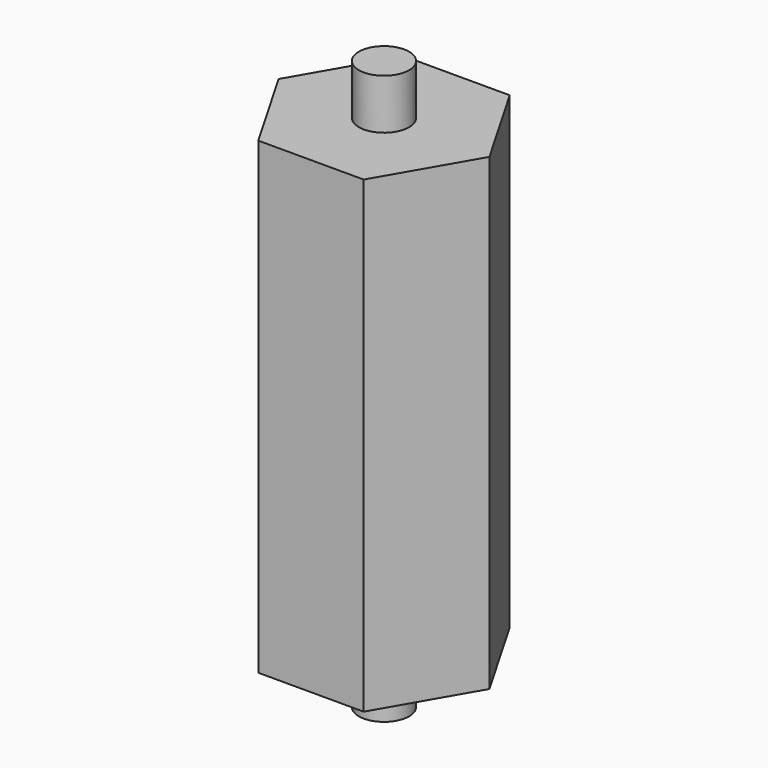
from build123d import *

# Parameters (mm, degrees)
F1_DEPTH = 28
F2_R     = 1.5
F3_DEPTH = 3
F4_R     = 1.5
F5_DEPTH = 3


with BuildPart() as f1:
    # F0 (on Top) → F1 (new body)
    with BuildSketch(Plane.XY):
        Polygon((3.15, 5.4559600438), (-3.15, 5.4559600438), (-6.3, 0), (-3.15, -5.4559600438), (3.15, -5.4559600438), (6.3, 0), align=None)
    extrude(amount=F1_DEPTH)

    # F4 (on face) → F5 (join)
    with BuildSketch(Plane(origin=(0, 0, 0), x_dir=(1, 0, 0), z_dir=(0, 0, -1))):
        Circle(F4_R)
    extrude(amount=F5_DEPTH)


with BuildPart() as f3:
    # F2 (on face) → F3 (new body)
    with BuildSketch(Plane.XY.offset(28)):
        Circle(F2_R)
    extrude(amount=F3_DEPTH)


solid = Compound([f1.part, f3.part])
